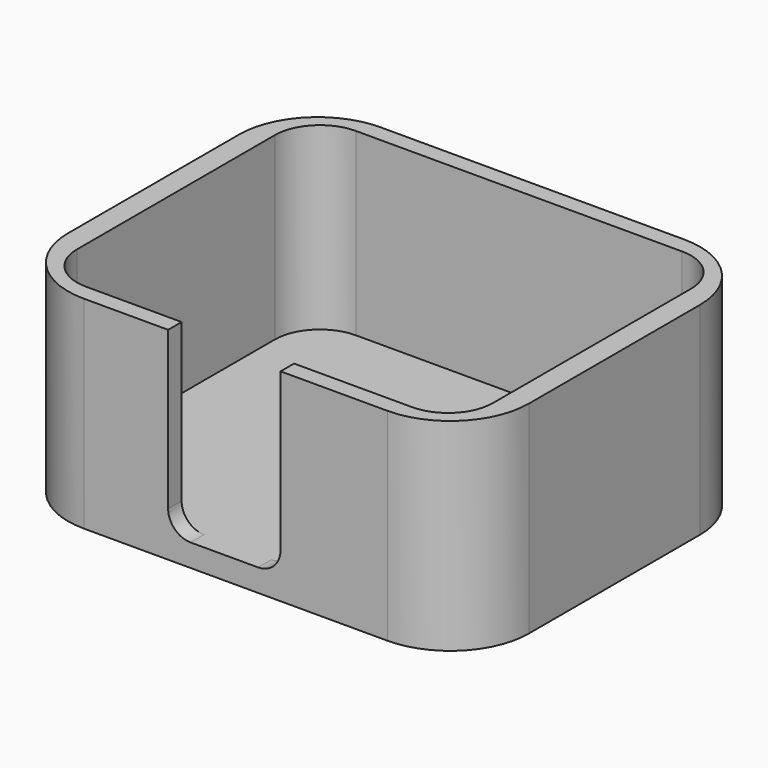
from build123d import *

# Parameters (mm, degrees)
PAD_DEPTH       = 18
POCKET_DEPTH    = 16
POCKET001_DEPTH = 5


with BuildPart() as part:
    # Sketch → Pad (new body)
    with BuildSketch(Plane.XY):
        with BuildLine():
            Line((-13.5, -16.5), (13.5, -16.5))
            ThreePointArc((13.5, -16.5), (18.449747, -14.449747), (20.5, -9.5))
            Line((20.5, -9.5), (20.5, 9.5))
            ThreePointArc((20.5, 9.5), (18.449747, 14.449747), (13.5, 16.5))
            Line((13.5, 16.5), (-13.5, 16.5))
            ThreePointArc((-13.5, 16.5), (-18.449747, 14.449747), (-20.5, 9.5))
            Line((-20.5, 9.5), (-20.5, -9.5))
            ThreePointArc((-20.5, -9.5), (-18.449747, -14.449747), (-13.5, -16.5))
        make_face()
    extrude(amount=PAD_DEPTH)

    # Sketch001 (on Face10 of Pad) → Pocket (cut)
    with BuildSketch(Plane.XY.offset(18)):
        with BuildLine():
            Line((-18.5, 11), (-18.5, -11))
            ThreePointArc((-18.5, -11), (-17.328427, -13.828427), (-14.5, -15))
            Line((-14.5, -15), (14.5, -15))
            ThreePointArc((14.5, -15), (17.328427, -13.828427), (18.5, -11))
            Line((18.5, -11), (18.5, 11))
            ThreePointArc((18.5, 11), (17.328427, 13.828427), (14.5, 15))
            Line((14.5, 15), (-14.5, 15))
            ThreePointArc((-14.5, 15), (-17.328427, 13.828427), (-18.5, 11))
        make_face()
    extrude(amount=-POCKET_DEPTH, mode=Mode.SUBTRACT)

    # Sketch002 (on Face1 of Pocket) → Pocket001 (cut)
    with BuildSketch(Plane.XZ.offset(16.5)):
        with BuildLine():
            Line((-6, 24), (-6, 4))
            ThreePointArc((-6, 4), (-5.414214, 2.585786), (-4, 2))
            Line((-4, 2), (2, 2))
            ThreePointArc((2, 2), (3.414214, 2.585786), (4, 4))
            Line((4, 4), (4, 24))
            ThreePointArc((4, 24), (3.414214, 25.414214), (2, 26))
            Line((2, 26), (-4, 26))
            ThreePointArc((-4, 26), (-5.414214, 25.414214), (-6, 24))
        make_face()
    extrude(amount=-POCKET001_DEPTH, mode=Mode.SUBTRACT)


solid = part.part
